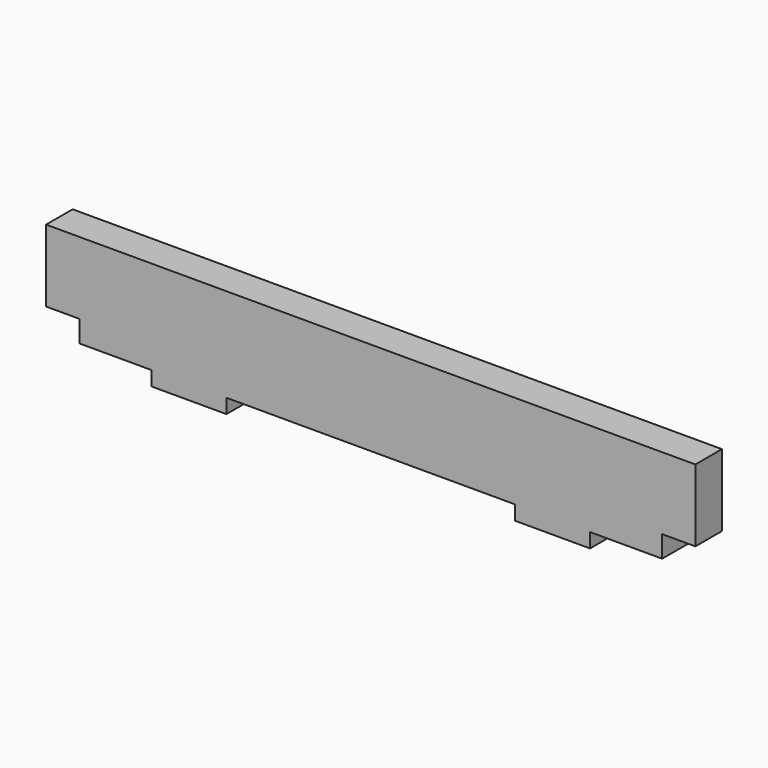
from build123d import *

# Parameters (mm, degrees)
F0_W     = 13.208
F0_H     = 2.54
F0_W_2   = 5.842
F0_H_2   = 12.7
F1_DEPTH = 5.842


with BuildPart() as f1:
    # F0 (on Front) → F1 (new body)
    with BuildSketch(Plane.XZ):
        with Locations((-70.612, -24.13)):
            Rectangle(F0_W, F0_H)
        with Locations((-6.604, -24.13)):
            Rectangle(F0_W, F0_H)
        with Locations((-92.837, -12.7)):
            Rectangle(F0_W_2, F0_H_2)
        with Locations((15.621, -12.7)):
            Rectangle(F0_W_2, F0_H_2)
        Polygon((12.7, -6.35), (-89.916, -6.35), (-89.916, -19.05), (-89.916, -22.86), (-77.216, -22.86), (-64.008, -22.86), (-13.208, -22.86), (0, -22.86), (12.7, -22.86), (12.7, -19.05), align=None)
    extrude(amount=-F1_DEPTH)


solid = f1.part
